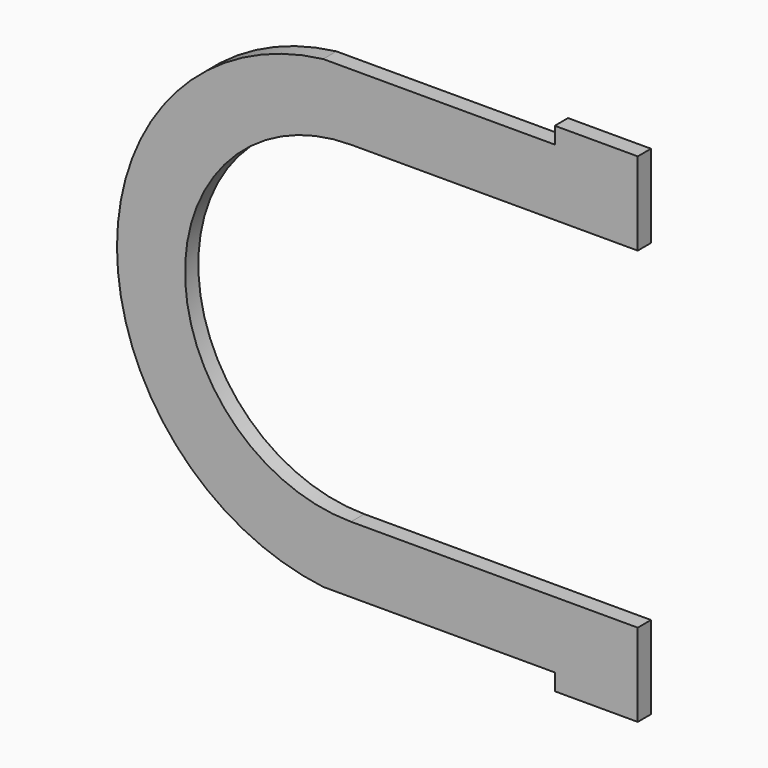
from build123d import *

# Parameters (mm, degrees)
F1_DEPTH = 12.7


with BuildPart() as f1:
    # F0 (on Front) → F1 (new body)
    with BuildSketch(Plane.XZ):
        with BuildLine():
            Line((155.927867, 190.5), (155.927867, 177.8))
            Line((155.927867, 177.8), (-21.289079, 177.8))
            ThreePointArc((-21.289079, 177.8), (-179.07, 0), (-21.289079, -177.8))
            Line((-21.289079, -177.8), (155.927867, -177.8))
            Line((155.927867, -177.8), (155.927867, -190.5))
            Line((155.927867, -190.5), (219.427867, -190.5))
            Line((219.427867, -190.5), (219.427867, -127))
            Line((219.427867, -127), (190.5, -127))
            Line((190.5, -127), (155.927867, -127))
            Line((155.927867, -127), (0, -127))
            ThreePointArc((0, -127), (-127, 0), (0, 127))
            Line((0, 127), (155.927867, 127))
            Line((155.927867, 127), (190.5, 127))
            Line((190.5, 127), (219.427867, 127))
            Line((219.427867, 127), (219.427867, 190.5))
            Line((219.427867, 190.5), (155.927867, 190.5))
        make_face()
    extrude(amount=F1_DEPTH)


solid = f1.part
